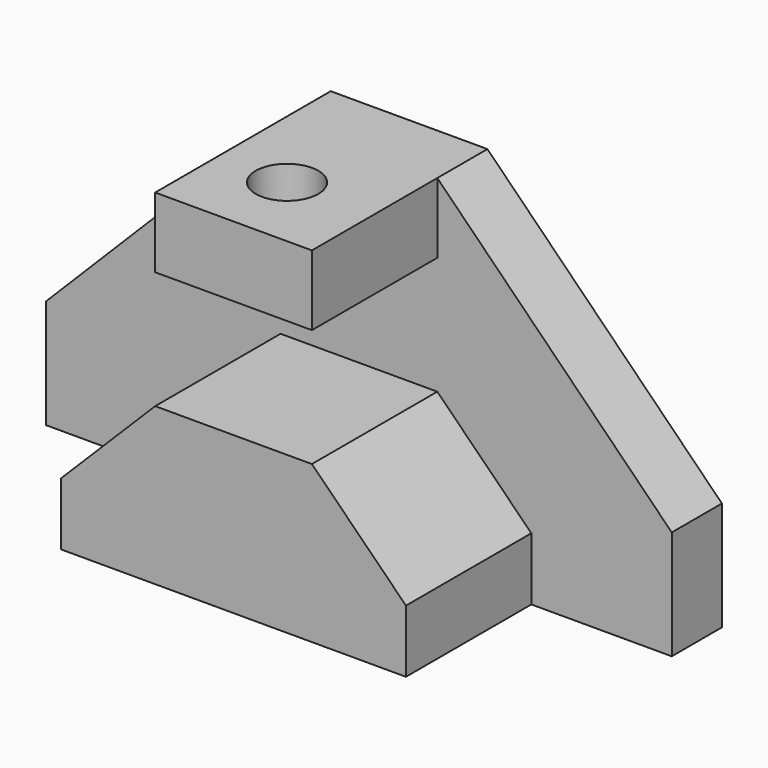
from build123d import *

# Parameters (mm, degrees)
F1_DEPTH = 12.7
F2_W     = 31.75
F2_H     = 14.224
F3_DEPTH = 31.75
F4_R     = 6.35
F5_DEPTH = 25.4


with BuildPart() as f1:
    # F0 (on Front) → F1 (new body)
    with BuildSketch(Plane.XZ):
        Polygon((24.795182, 59.197172), (-6.954818, 59.197172), (-54.452818, 11.445172), (-54.452818, -10.652828), (72.293182, -10.652828), (72.293182, 11.445172), align=None)
    extrude(amount=F1_DEPTH)

    # F2 (on face) → F3 (join)
    with BuildSketch(Plane.XZ.offset(12.7)):
        with Locations((8.920182, 52.085172)):
            Rectangle(F2_W, F2_H)
        Polygon((-26.004818, 2.047172), (-26.004818, -10.652828), (43.845182, -10.652828), (43.845182, 2.047172), (24.795182, 21.097172), (-6.954818, 21.097172), align=None)
    extrude(amount=F3_DEPTH)

    # F4 (on face) → F5 (cut)
    with BuildSketch(Plane.XY.offset(59.197172)):
        with Locations((7.162185, -28.702)):
            Circle(F4_R)
    extrude(amount=-F5_DEPTH, mode=Mode.SUBTRACT)


solid = f1.part
